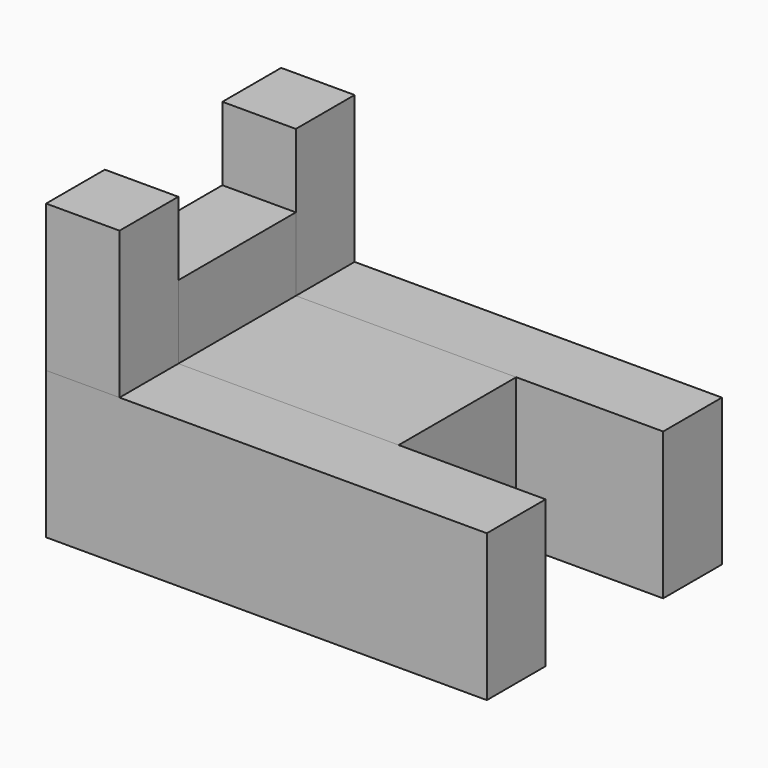
from build123d import *

# Parameters (mm, degrees)
F0_W     = 6.35
F0_H     = 12.7
F1_DEPTH = 38.1
F0_W_2   = 12.7
F2_DEPTH = 25.4
F3_DEPTH = 6.35
F0_H_2   = 6.35
F4_DEPTH = 6.35


with BuildPart() as f1:
    # F0 (on Right) → F1 (new body)
    with BuildSketch(Plane.YZ):
        with Locations((3.175, 6.35)):
            Rectangle(F0_W, F0_H)
        with Locations((22.225, 6.35)):
            Rectangle(F0_W, F0_H)
    extrude(amount=F1_DEPTH)


with BuildPart() as f2:
    # F0 (on Right) → F2 (new body)
    with BuildSketch(Plane.YZ):
        with Locations((12.7, 6.35)):
            Rectangle(F0_W_2, F0_H)
    extrude(amount=F2_DEPTH)


with BuildPart() as f3:
    # F0 (on Right) → F3 (new body)
    with BuildSketch(Plane.YZ):
        Polygon((0, 25.4), (0, 12.7), (6.35, 12.7), (6.35, 19.05), (6.35, 25.4), align=None)
        Polygon((19.05, 19.05), (19.05, 12.7), (25.4, 12.7), (25.4, 25.4), (19.05, 25.4), align=None)
    extrude(amount=F3_DEPTH)


with BuildPart() as f4:
    # F0 (on Right) → F4 (new body)
    with BuildSketch(Plane.YZ):
        with Locations((12.7, 15.875)):
            Rectangle(F0_W_2, F0_H_2)
    extrude(amount=F4_DEPTH)


solid = Compound([f1.part, f2.part, f3.part, f4.part])
